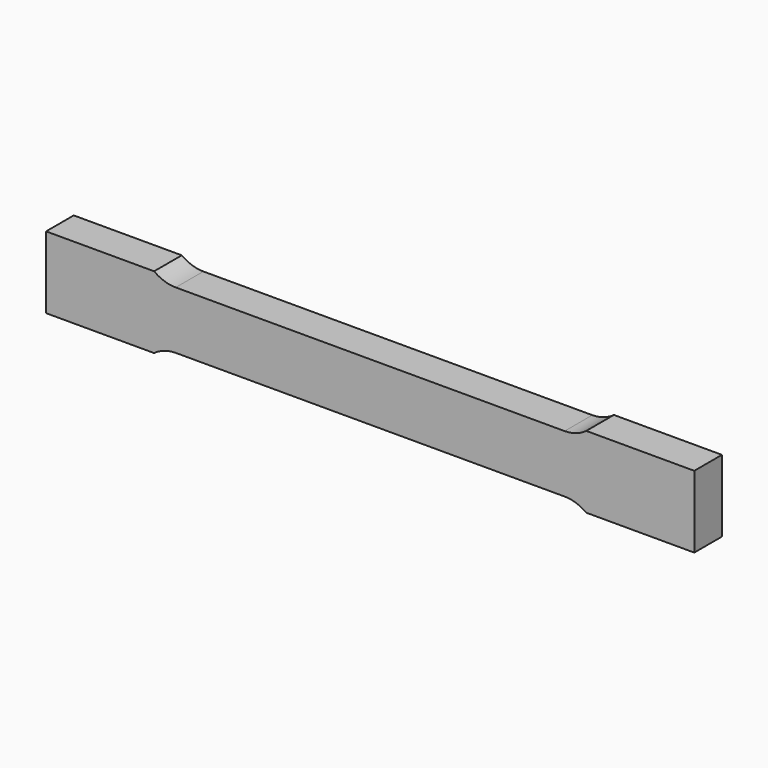
from build123d import *

# Parameters (mm, degrees)
F1_DEPTH = 24


with BuildPart() as f1:
    # F0 (on Front) → F1 (new body)
    with BuildSketch(Plane.XZ):
        with BuildLine():
            Line((135, 20), (0, 20))
            Line((0, 20), (-135, 20))
            ThreePointArc((-135, 20), (-142.905694, 21.282918), (-150, 25))
            Line((-150, 25), (-225, 25))
            Line((-225, 25), (-225, 0))
            Line((-225, 0), (-225, -25))
            Line((-225, -25), (-150, -25))
            ThreePointArc((-150, -25), (-142.905694, -21.282918), (-135, -20))
            Line((-135, -20), (0, -20))
            Line((0, -20), (135, -20))
            ThreePointArc((135, -20), (142.905694, -21.282918), (150, -25))
            Line((150, -25), (225, -25))
            Line((225, -25), (225, 0))
            Line((225, 0), (225, 25))
            Line((225, 25), (150, 25))
            ThreePointArc((150, 25), (142.905694, 21.282918), (135, 20))
        make_face()
    extrude(amount=F1_DEPTH)


solid = f1.part
